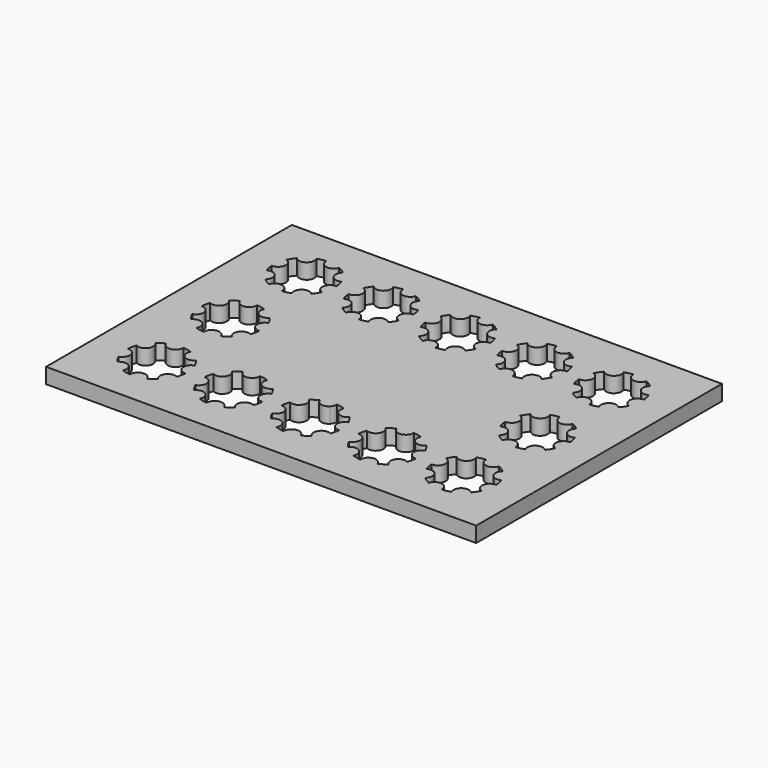
from build123d import *

# Parameters (mm, degrees)
F1_DEPTH = 5


with BuildPart() as f1:
    # F0 (on Top) → F1 (new body)
    with BuildSketch(Plane.XY):
        with BuildLine():
            Line((70, 100), (0, 100))
            Line((0, 100), (0, 0))
            Line((0, 0), (70, 0))
            Line((70, 0), (70, 11.93132))
            ThreePointArc((70, 11.93132), (69.428603, 11.057821), (69.263673, 10.027146))
            ThreePointArc((69.263673, 10.027146), (67.859269, 10.231823), (66.497985, 10.633256))
            ThreePointArc((66.497985, 10.633256), (65.713078, 13.845953), (62.427465, 13.468789))
            ThreePointArc((62.427465, 13.468789), (61.579131, 14.606581), (60.900413, 15.85301))
            ThreePointArc((60.900413, 15.85301), (62.61712, 18.679743), (60.027146, 20.736327))
            ThreePointArc((60.027146, 20.736327), (60.231823, 22.140731), (60.633256, 23.502015))
            ThreePointArc((60.633256, 23.502015), (63.845953, 24.286922), (63.468789, 27.572535))
            ThreePointArc((63.468789, 27.572535), (64.606581, 28.420869), (65.85301, 29.099587))
            ThreePointArc((65.85301, 29.099587), (67.636535, 27.417682), (70, 28.06868))
            Line((70, 28.06868), (70, 71.93132))
            ThreePointArc((70, 71.93132), (67.636535, 72.582318), (65.85301, 70.900413))
            ThreePointArc((65.85301, 70.900413), (64.606581, 71.579131), (63.468789, 72.427465))
            ThreePointArc((63.468789, 72.427465), (63.845953, 75.713078), (60.633256, 76.497985))
            ThreePointArc((60.633256, 76.497985), (60.231823, 77.859269), (60.027146, 79.263673))
            ThreePointArc((60.027146, 79.263673), (62.61712, 81.320257), (60.900413, 84.14699))
            ThreePointArc((60.900413, 84.14699), (61.579131, 85.393419), (62.427465, 86.531211))
            ThreePointArc((62.427465, 86.531211), (65.713078, 86.154047), (66.497985, 89.366744))
            ThreePointArc((66.497985, 89.366744), (67.859269, 89.768177), (69.263673, 89.972854))
            ThreePointArc((69.263673, 89.972854), (69.428603, 88.942179), (70, 88.06868))
            Line((70, 88.06868), (70, 100))
        make_face()
        with BuildLine():
            ThreePointArc((10.900413, 15.85301), (12.61712, 18.679743), (10.027146, 20.736327))
            ThreePointArc((10.027146, 20.736327), (10.231823, 22.140731), (10.633256, 23.502015))
            ThreePointArc((10.633256, 23.502015), (13.845953, 24.286922), (13.468789, 27.572535))
            ThreePointArc((13.468789, 27.572535), (14.606581, 28.420869), (15.85301, 29.099587))
            ThreePointArc((15.85301, 29.099587), (18.679743, 27.38288), (20.736327, 29.972854))
            ThreePointArc((20.736327, 29.972854), (22.140731, 29.768177), (23.502015, 29.366744))
            ThreePointArc((23.502015, 29.366744), (24.286922, 26.154047), (27.572535, 26.531211))
            ThreePointArc((27.572535, 26.531211), (28.420869, 25.393419), (29.099587, 24.14699))
            ThreePointArc((29.099587, 24.14699), (27.38288, 21.320257), (29.972854, 19.263673))
            ThreePointArc((29.972854, 19.263673), (29.768177, 17.859269), (29.366744, 16.497985))
            ThreePointArc((29.366744, 16.497985), (26.154047, 15.713078), (26.531211, 12.427465))
            ThreePointArc((26.531211, 12.427465), (25.393419, 11.579131), (24.14699, 10.900413))
            ThreePointArc((24.14699, 10.900413), (21.320257, 12.61712), (19.263673, 10.027146))
            ThreePointArc((19.263673, 10.027146), (17.859269, 10.231823), (16.497985, 10.633256))
            ThreePointArc((16.497985, 10.633256), (15.713078, 13.845953), (12.427465, 13.468789))
            ThreePointArc((12.427465, 13.468789), (11.579131, 14.606581), (10.900413, 15.85301))
        make_face(mode=Mode.SUBTRACT)
        with BuildLine():
            ThreePointArc((41.497985, 10.633256), (40.713078, 13.845953), (37.427465, 13.468789))
            ThreePointArc((37.427465, 13.468789), (36.579131, 14.606581), (35.900413, 15.85301))
            ThreePointArc((35.900413, 15.85301), (37.61712, 18.679743), (35.027146, 20.736327))
            ThreePointArc((35.027146, 20.736327), (35.231823, 22.140731), (35.633256, 23.502015))
            ThreePointArc((35.633256, 23.502015), (38.845953, 24.286922), (38.468789, 27.572535))
            ThreePointArc((38.468789, 27.572535), (39.606581, 28.420869), (40.85301, 29.099587))
            ThreePointArc((40.85301, 29.099587), (43.679743, 27.38288), (45.736327, 29.972854))
            ThreePointArc((45.736327, 29.972854), (47.140731, 29.768177), (48.502015, 29.366744))
            ThreePointArc((48.502015, 29.366744), (49.286922, 26.154047), (52.572535, 26.531211))
            ThreePointArc((52.572535, 26.531211), (53.420869, 25.393419), (54.099587, 24.14699))
            ThreePointArc((54.099587, 24.14699), (52.38288, 21.320257), (54.972854, 19.263673))
            ThreePointArc((54.972854, 19.263673), (54.768177, 17.859269), (54.366744, 16.497985))
            ThreePointArc((54.366744, 16.497985), (51.154047, 15.713078), (51.531211, 12.427465))
            ThreePointArc((51.531211, 12.427465), (50.393419, 11.579131), (49.14699, 10.900413))
            ThreePointArc((49.14699, 10.900413), (46.320257, 12.61712), (44.263673, 10.027146))
            ThreePointArc((44.263673, 10.027146), (42.859269, 10.231823), (41.497985, 10.633256))
        make_face(mode=Mode.SUBTRACT)
        with BuildLine():
            ThreePointArc((29.366744, 46.497985), (26.154047, 45.713078), (26.531211, 42.427465))
            ThreePointArc((26.531211, 42.427465), (25.393419, 41.579131), (24.14699, 40.900413))
            ThreePointArc((24.14699, 40.900413), (21.320257, 42.61712), (19.263673, 40.027146))
            ThreePointArc((19.263673, 40.027146), (17.859269, 40.231823), (16.497985, 40.633256))
            ThreePointArc((16.497985, 40.633256), (15.713078, 43.845953), (12.427465, 43.468789))
            ThreePointArc((12.427465, 43.468789), (11.579131, 44.606581), (10.900413, 45.85301))
            ThreePointArc((10.900413, 45.85301), (12.61712, 48.679743), (10.027146, 50.736327))
            ThreePointArc((10.027146, 50.736327), (10.231823, 52.140731), (10.633256, 53.502015))
            ThreePointArc((10.633256, 53.502015), (13.845953, 54.286922), (13.468789, 57.572535))
            ThreePointArc((13.468789, 57.572535), (14.606581, 58.420869), (15.85301, 59.099587))
            ThreePointArc((15.85301, 59.099587), (18.679743, 57.38288), (20.736327, 59.972854))
            ThreePointArc((20.736327, 59.972854), (22.140731, 59.768177), (23.502015, 59.366744))
            ThreePointArc((23.502015, 59.366744), (24.286922, 56.154047), (27.572535, 56.531211))
            ThreePointArc((27.572535, 56.531211), (28.420869, 55.393419), (29.099587, 54.14699))
            ThreePointArc((29.099587, 54.14699), (27.38288, 51.320257), (29.972854, 49.263673))
            ThreePointArc((29.972854, 49.263673), (29.768177, 47.859269), (29.366744, 46.497985))
        make_face(mode=Mode.SUBTRACT)
        with BuildLine():
            ThreePointArc((10.900413, 84.14699), (11.579131, 85.393419), (12.427465, 86.531211))
            ThreePointArc((12.427465, 86.531211), (15.713078, 86.154047), (16.497985, 89.366744))
            ThreePointArc((16.497985, 89.366744), (17.859269, 89.768177), (19.263673, 89.972854))
            ThreePointArc((19.263673, 89.972854), (21.320257, 87.38288), (24.14699, 89.099587))
            ThreePointArc((24.14699, 89.099587), (25.393419, 88.420869), (26.531211, 87.572535))
            ThreePointArc((26.531211, 87.572535), (26.154047, 84.286922), (29.366744, 83.502015))
            ThreePointArc((29.366744, 83.502015), (29.768177, 82.140731), (29.972854, 80.736327))
            ThreePointArc((29.972854, 80.736327), (27.38288, 78.679743), (29.099587, 75.85301))
            ThreePointArc((29.099587, 75.85301), (28.420869, 74.606581), (27.572535, 73.468789))
            ThreePointArc((27.572535, 73.468789), (24.286922, 73.845953), (23.502015, 70.633256))
            ThreePointArc((23.502015, 70.633256), (22.140731, 70.231823), (20.736327, 70.027146))
            ThreePointArc((20.736327, 70.027146), (18.679743, 72.61712), (15.85301, 70.900413))
            ThreePointArc((15.85301, 70.900413), (14.606581, 71.579131), (13.468789, 72.427465))
            ThreePointArc((13.468789, 72.427465), (13.845953, 75.713078), (10.633256, 76.497985))
            ThreePointArc((10.633256, 76.497985), (10.231823, 77.859269), (10.027146, 79.263673))
            ThreePointArc((10.027146, 79.263673), (12.61712, 81.320257), (10.900413, 84.14699))
        make_face(mode=Mode.SUBTRACT)
        with BuildLine():
            ThreePointArc((35.900413, 84.14699), (36.579131, 85.393419), (37.427465, 86.531211))
            ThreePointArc((37.427465, 86.531211), (40.713078, 86.154047), (41.497985, 89.366744))
            ThreePointArc((41.497985, 89.366744), (42.859269, 89.768177), (44.263673, 89.972854))
            ThreePointArc((44.263673, 89.972854), (46.320257, 87.38288), (49.14699, 89.099587))
            ThreePointArc((49.14699, 89.099587), (50.393419, 88.420869), (51.531211, 87.572535))
            ThreePointArc((51.531211, 87.572535), (51.154047, 84.286922), (54.366744, 83.502015))
            ThreePointArc((54.366744, 83.502015), (54.768177, 82.140731), (54.972854, 80.736327))
            ThreePointArc((54.972854, 80.736327), (52.38288, 78.679743), (54.099587, 75.85301))
            ThreePointArc((54.099587, 75.85301), (53.420869, 74.606581), (52.572535, 73.468789))
            ThreePointArc((52.572535, 73.468789), (49.286922, 73.845953), (48.502015, 70.633256))
            ThreePointArc((48.502015, 70.633256), (47.140731, 70.231823), (45.736327, 70.027146))
            ThreePointArc((45.736327, 70.027146), (43.679743, 72.61712), (40.85301, 70.900413))
            ThreePointArc((40.85301, 70.900413), (39.606581, 71.579131), (38.468789, 72.427465))
            ThreePointArc((38.468789, 72.427465), (38.845953, 75.713078), (35.633256, 76.497985))
            ThreePointArc((35.633256, 76.497985), (35.231823, 77.859269), (35.027146, 79.263673))
            ThreePointArc((35.027146, 79.263673), (37.61712, 81.320257), (35.900413, 84.14699))
        make_face(mode=Mode.SUBTRACT)
        with BuildLine():
            Line((140, 100), (70, 100))
            Line((70, 100), (70, 88.06868))
            ThreePointArc((70, 88.06868), (72.363465, 87.417682), (74.14699, 89.099587))
            ThreePointArc((74.14699, 89.099587), (75.393419, 88.420869), (76.531211, 87.572535))
            ThreePointArc((76.531211, 87.572535), (76.154047, 84.286922), (79.366744, 83.502015))
            ThreePointArc((79.366744, 83.502015), (79.768177, 82.140731), (79.972854, 80.736327))
            ThreePointArc((79.972854, 80.736327), (77.38288, 78.679743), (79.099587, 75.85301))
            ThreePointArc((79.099587, 75.85301), (78.420869, 74.606581), (77.572535, 73.468789))
            ThreePointArc((77.572535, 73.468789), (74.286922, 73.845953), (73.502015, 70.633256))
            ThreePointArc((73.502015, 70.633256), (72.140731, 70.231823), (70.736327, 70.027146))
            ThreePointArc((70.736327, 70.027146), (70.571397, 71.057821), (70, 71.93132))
            Line((70, 71.93132), (70, 28.06868))
            ThreePointArc((70, 28.06868), (70.571397, 28.942179), (70.736327, 29.972854))
            ThreePointArc((70.736327, 29.972854), (72.140731, 29.768177), (73.502015, 29.366744))
            ThreePointArc((73.502015, 29.366744), (74.286922, 26.154047), (77.572535, 26.531211))
            ThreePointArc((77.572535, 26.531211), (78.420869, 25.393419), (79.099587, 24.14699))
            ThreePointArc((79.099587, 24.14699), (77.38288, 21.320257), (79.972854, 19.263673))
            ThreePointArc((79.972854, 19.263673), (79.768177, 17.859269), (79.366744, 16.497985))
            ThreePointArc((79.366744, 16.497985), (76.154047, 15.713078), (76.531211, 12.427465))
            ThreePointArc((76.531211, 12.427465), (75.393419, 11.579131), (74.14699, 10.900413))
            ThreePointArc((74.14699, 10.900413), (72.363465, 12.582318), (70, 11.93132))
            Line((70, 11.93132), (70, 0))
            Line((70, 0), (140, 0))
            Line((140, 0), (140, 100))
        make_face()
        with BuildLine():
            ThreePointArc((104.366744, 16.497985), (101.154047, 15.713078), (101.531211, 12.427465))
            ThreePointArc((101.531211, 12.427465), (100.393419, 11.579131), (99.14699, 10.900413))
            ThreePointArc((99.14699, 10.900413), (96.320257, 12.61712), (94.263673, 10.027146))
            ThreePointArc((94.263673, 10.027146), (92.859269, 10.231823), (91.497985, 10.633256))
            ThreePointArc((91.497985, 10.633256), (90.713078, 13.845953), (87.427465, 13.468789))
            ThreePointArc((87.427465, 13.468789), (86.579131, 14.606581), (85.900413, 15.85301))
            ThreePointArc((85.900413, 15.85301), (87.61712, 18.679743), (85.027146, 20.736327))
            ThreePointArc((85.027146, 20.736327), (85.231823, 22.140731), (85.633256, 23.502015))
            ThreePointArc((85.633256, 23.502015), (88.845953, 24.286922), (88.468789, 27.572535))
            ThreePointArc((88.468789, 27.572535), (89.606581, 28.420869), (90.85301, 29.099587))
            ThreePointArc((90.85301, 29.099587), (93.679743, 27.38288), (95.736327, 29.972854))
            ThreePointArc((95.736327, 29.972854), (97.140731, 29.768177), (98.502015, 29.366744))
            ThreePointArc((98.502015, 29.366744), (99.286922, 26.154047), (102.572535, 26.531211))
            ThreePointArc((102.572535, 26.531211), (103.420869, 25.393419), (104.099587, 24.14699))
            ThreePointArc((104.099587, 24.14699), (102.38288, 21.320257), (104.972854, 19.263673))
            ThreePointArc((104.972854, 19.263673), (104.768177, 17.859269), (104.366744, 16.497985))
        make_face(mode=Mode.SUBTRACT)
        with BuildLine():
            ThreePointArc((129.099587, 15.85301), (128.420869, 14.606581), (127.572535, 13.468789))
            ThreePointArc((127.572535, 13.468789), (124.286922, 13.845953), (123.502015, 10.633256))
            ThreePointArc((123.502015, 10.633256), (122.140731, 10.231823), (120.736327, 10.027146))
            ThreePointArc((120.736327, 10.027146), (118.679743, 12.61712), (115.85301, 10.900413))
            ThreePointArc((115.85301, 10.900413), (114.606581, 11.579131), (113.468789, 12.427465))
            ThreePointArc((113.468789, 12.427465), (113.845953, 15.713078), (110.633256, 16.497985))
            ThreePointArc((110.633256, 16.497985), (110.231823, 17.859269), (110.027146, 19.263673))
            ThreePointArc((110.027146, 19.263673), (112.61712, 21.320257), (110.900413, 24.14699))
            ThreePointArc((110.900413, 24.14699), (111.579131, 25.393419), (112.427465, 26.531211))
            ThreePointArc((112.427465, 26.531211), (115.713078, 26.154047), (116.497985, 29.366744))
            ThreePointArc((116.497985, 29.366744), (117.859269, 29.768177), (119.263673, 29.972854))
            ThreePointArc((119.263673, 29.972854), (121.320257, 27.38288), (124.14699, 29.099587))
            ThreePointArc((124.14699, 29.099587), (125.393419, 28.420869), (126.531211, 27.572535))
            ThreePointArc((126.531211, 27.572535), (126.154047, 24.286922), (129.366744, 23.502015))
            ThreePointArc((129.366744, 23.502015), (129.768177, 22.140731), (129.972854, 20.736327))
            ThreePointArc((129.972854, 20.736327), (127.38288, 18.679743), (129.099587, 15.85301))
        make_face(mode=Mode.SUBTRACT)
        with BuildLine():
            ThreePointArc((129.099587, 45.85301), (128.420869, 44.606581), (127.572535, 43.468789))
            ThreePointArc((127.572535, 43.468789), (124.286922, 43.845953), (123.502015, 40.633256))
            ThreePointArc((123.502015, 40.633256), (122.140731, 40.231823), (120.736327, 40.027146))
            ThreePointArc((120.736327, 40.027146), (118.679743, 42.61712), (115.85301, 40.900413))
            ThreePointArc((115.85301, 40.900413), (114.606581, 41.579131), (113.468789, 42.427465))
            ThreePointArc((113.468789, 42.427465), (113.845953, 45.713078), (110.633256, 46.497985))
            ThreePointArc((110.633256, 46.497985), (110.231823, 47.859269), (110.027146, 49.263673))
            ThreePointArc((110.027146, 49.263673), (112.61712, 51.320257), (110.900413, 54.14699))
            ThreePointArc((110.900413, 54.14699), (111.579131, 55.393419), (112.427465, 56.531211))
            ThreePointArc((112.427465, 56.531211), (115.713078, 56.154047), (116.497985, 59.366744))
            ThreePointArc((116.497985, 59.366744), (117.859269, 59.768177), (119.263673, 59.972854))
            ThreePointArc((119.263673, 59.972854), (121.320257, 57.38288), (124.14699, 59.099587))
            ThreePointArc((124.14699, 59.099587), (125.393419, 58.420869), (126.531211, 57.572535))
            ThreePointArc((126.531211, 57.572535), (126.154047, 54.286922), (129.366744, 53.502015))
            ThreePointArc((129.366744, 53.502015), (129.768177, 52.140731), (129.972854, 50.736327))
            ThreePointArc((129.972854, 50.736327), (127.38288, 48.679743), (129.099587, 45.85301))
        make_face(mode=Mode.SUBTRACT)
        with BuildLine():
            ThreePointArc((85.900413, 84.14699), (86.579131, 85.393419), (87.427465, 86.531211))
            ThreePointArc((87.427465, 86.531211), (90.713078, 86.154047), (91.497985, 89.366744))
            ThreePointArc((91.497985, 89.366744), (92.859269, 89.768177), (94.263673, 89.972854))
            ThreePointArc((94.263673, 89.972854), (96.320257, 87.38288), (99.14699, 89.099587))
            ThreePointArc((99.14699, 89.099587), (100.393419, 88.420869), (101.531211, 87.572535))
            ThreePointArc((101.531211, 87.572535), (101.154047, 84.286922), (104.366744, 83.502015))
            ThreePointArc((104.366744, 83.502015), (104.768177, 82.140731), (104.972854, 80.736327))
            ThreePointArc((104.972854, 80.736327), (102.38288, 78.679743), (104.099587, 75.85301))
            ThreePointArc((104.099587, 75.85301), (103.420869, 74.606581), (102.572535, 73.468789))
            ThreePointArc((102.572535, 73.468789), (99.286922, 73.845953), (98.502015, 70.633256))
            ThreePointArc((98.502015, 70.633256), (97.140731, 70.231823), (95.736327, 70.027146))
            ThreePointArc((95.736327, 70.027146), (93.679743, 72.61712), (90.85301, 70.900413))
            ThreePointArc((90.85301, 70.900413), (89.606581, 71.579131), (88.468789, 72.427465))
            ThreePointArc((88.468789, 72.427465), (88.845953, 75.713078), (85.633256, 76.497985))
            ThreePointArc((85.633256, 76.497985), (85.231823, 77.859269), (85.027146, 79.263673))
            ThreePointArc((85.027146, 79.263673), (87.61712, 81.320257), (85.900413, 84.14699))
        make_face(mode=Mode.SUBTRACT)
        with BuildLine():
            ThreePointArc((129.099587, 75.85301), (128.420869, 74.606581), (127.572535, 73.468789))
            ThreePointArc((127.572535, 73.468789), (124.286922, 73.845953), (123.502015, 70.633256))
            ThreePointArc((123.502015, 70.633256), (122.140731, 70.231823), (120.736327, 70.027146))
            ThreePointArc((120.736327, 70.027146), (118.679743, 72.61712), (115.85301, 70.900413))
            ThreePointArc((115.85301, 70.900413), (114.606581, 71.579131), (113.468789, 72.427465))
            ThreePointArc((113.468789, 72.427465), (113.845953, 75.713078), (110.633256, 76.497985))
            ThreePointArc((110.633256, 76.497985), (110.231823, 77.859269), (110.027146, 79.263673))
            ThreePointArc((110.027146, 79.263673), (112.61712, 81.320257), (110.900413, 84.14699))
            ThreePointArc((110.900413, 84.14699), (111.579131, 85.393419), (112.427465, 86.531211))
            ThreePointArc((112.427465, 86.531211), (115.713078, 86.154047), (116.497985, 89.366744))
            ThreePointArc((116.497985, 89.366744), (117.859269, 89.768177), (119.263673, 89.972854))
            ThreePointArc((119.263673, 89.972854), (121.320257, 87.38288), (124.14699, 89.099587))
            ThreePointArc((124.14699, 89.099587), (125.393419, 88.420869), (126.531211, 87.572535))
            ThreePointArc((126.531211, 87.572535), (126.154047, 84.286922), (129.366744, 83.502015))
            ThreePointArc((129.366744, 83.502015), (129.768177, 82.140731), (129.972854, 80.736327))
            ThreePointArc((129.972854, 80.736327), (127.38288, 78.679743), (129.099587, 75.85301))
        make_face(mode=Mode.SUBTRACT)
    extrude(amount=F1_DEPTH)


solid = f1.part
